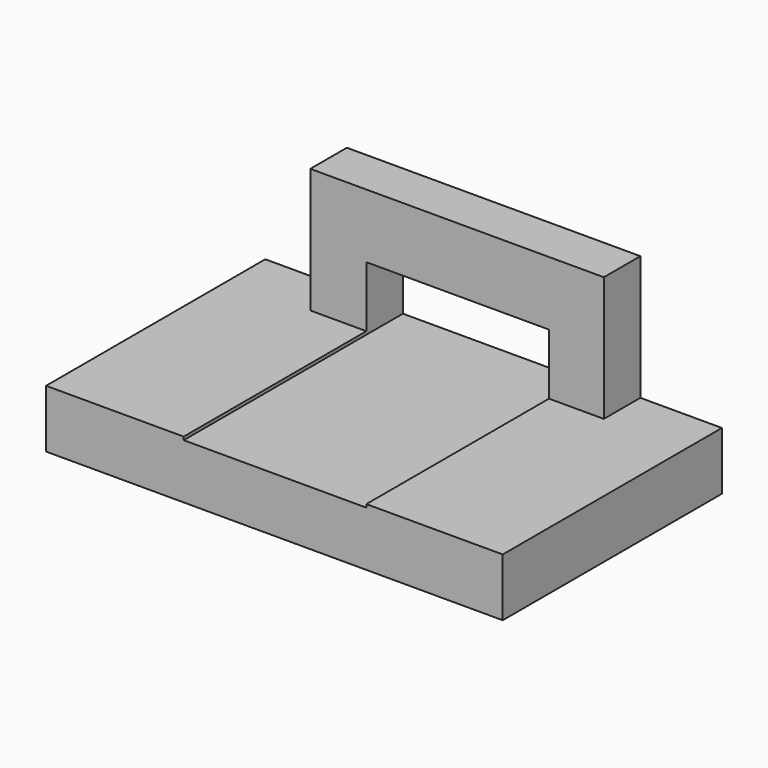
from build123d import *

# Parameters (mm, degrees)
F0_W     = 20
F0_H     = 7
F1_DEPTH = 5
F3_DEPTH = 25


with BuildPart() as f1:
    # F0 (on Front) → F1 (new body)
    with BuildSketch(Plane.XZ):
        Polygon((16.272397, 10.109596), (-15.866468, 10.109596), (-15.866468, -3.545616), (-24.797036, -3.545616), (-24.797036, -9.890404), (25.202964, -9.890404), (25.202964, -3.545616), (16.272397, -3.545616), align=None)
        with Locations((0.271348, -0.390404)):
            Rectangle(F0_W, F0_H, mode=Mode.SUBTRACT)
    extrude(amount=F1_DEPTH)

    # F2 (on face) → F3 (join)
    with BuildSketch(Plane.XZ.offset(5)):
        Polygon((-15.866468, -3.545616), (-24.797036, -3.545616), (-24.797036, -9.890404), (25.202964, -9.890404), (25.202964, -3.545616), (16.272397, -3.545616), (10.271348, -3.545616), (10.271348, -3.890404), (-9.728652, -3.890404), (-9.728652, -3.545616), align=None)
    extrude(amount=F3_DEPTH)


solid = f1.part
